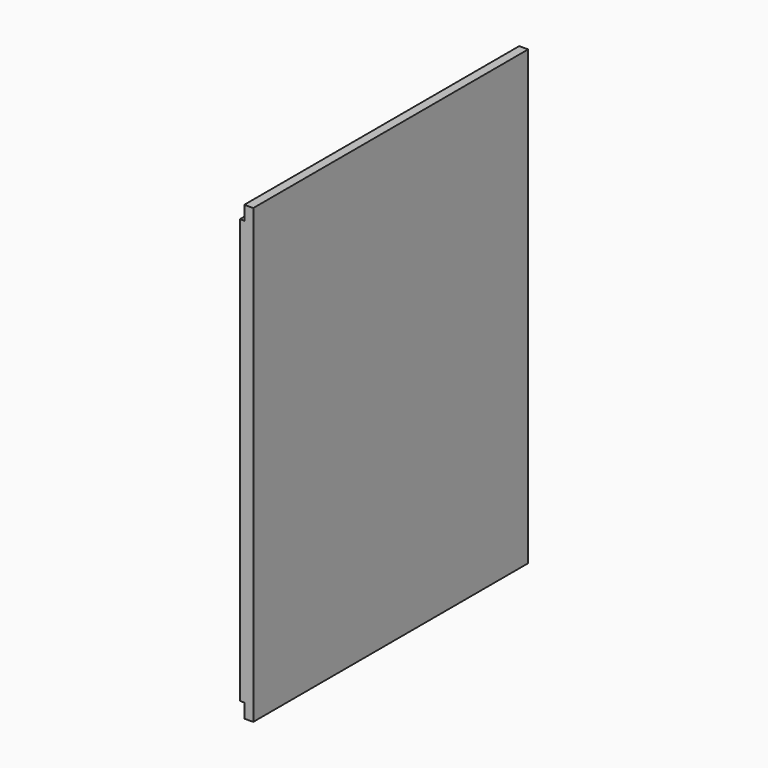
from build123d import *

# Parameters (mm, degrees)
F0_W     = 461.44942
F0_H     = 607.50196
F1_DEPTH = 18
F2_W     = 18
F2_H     = 19
F2_H_2   = 569.50196
F2_W_2   = 19
F2_H_3   = 315.40196
F3_DEPTH = 6
F4_W     = 416.292534
F4_H     = 19
F5_DEPTH = 6


with BuildPart() as f1:
    # F0 (on Right) → F1 (new body)
    with BuildSketch(Plane.YZ):
        with Locations((6.814488, 30.1922)):
            Rectangle(F0_W, F0_H)
    extrude(amount=F1_DEPTH)

    # F2 (on face) → F3 (cut)
    with BuildSketch(Plane(origin=(0, 0, 0), x_dir=(0, -1, 0), z_dir=(-1, 0, 0))):
        with Locations((-228.539198, 324.44318)):
            Rectangle(F2_W, F2_H)
        Polygon((180.510222, 333.94318), (-219.539198, 333.94318), (-219.539198, 314.94318), (223.910222, 314.94318), (223.910222, 333.94318), (198.510222, 333.94318), align=None)
        with Locations((-228.539198, 30.1922)):
            Rectangle(F2_W, F2_H_2)
        with Locations((-228.539198, -264.05878)):
            Rectangle(F2_W, F2_H)
        Polygon((223.910222, -254.55878), (-219.539198, -254.55878), (-219.539198, -273.55878), (180.510222, -273.55878), (198.510222, -273.55878), (223.910222, -273.55878), align=None)
        with Locations((189.010222, 30.1922)):
            Rectangle(F2_W_2, F2_H_3)
    extrude(amount=-F3_DEPTH, mode=Mode.SUBTRACT)

    # F4 (on face) → F5 (cut)
    with BuildSketch(Plane(origin=(0, 0, 0), x_dir=(0, -1, 0), z_dir=(-1, 0, 0))):
        with Locations((-18.287234, 30.1922)):
            Rectangle(F4_W, F4_H)
    extrude(amount=-F5_DEPTH, mode=Mode.SUBTRACT)


solid = f1.part
